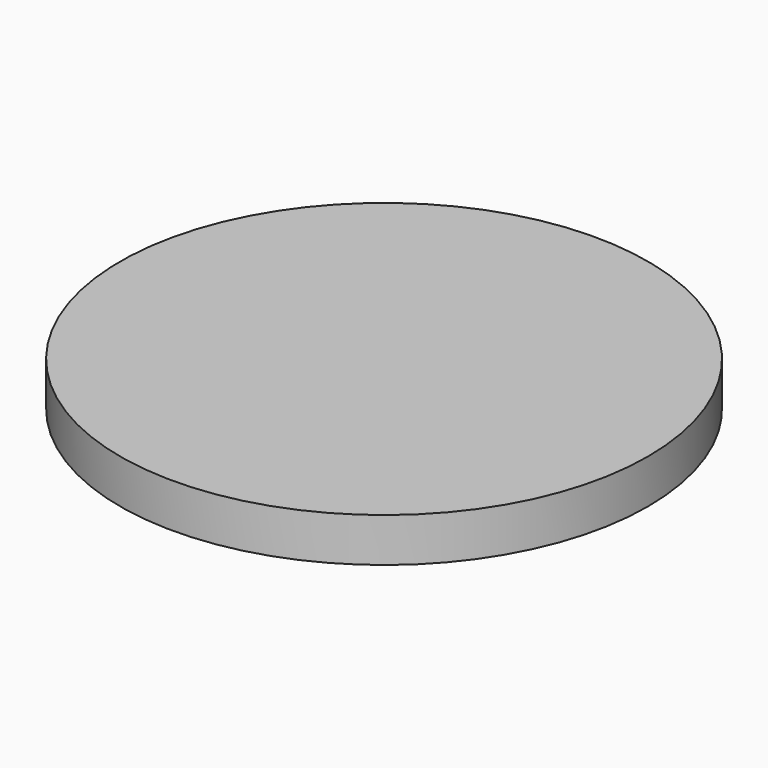
from build123d import *

# Parameters (mm, degrees)
F1_DEPTH = 10
F2_R     = 30
F3_DEPTH = 5


with BuildPart() as f1:
    # F0 (on Top) → F1 (new body)
    with BuildSketch(Plane.XY):
        Polygon((-2.061935, 7.216769), (-5.218938, -5.394072), (7.280873, -1.822697), align=None)
    extrude(amount=F1_DEPTH)

    # F2 (on face) → F3 (join)
    with BuildSketch(Plane.XY.offset(10)):
        Circle(F2_R)
    extrude(amount=F3_DEPTH)


solid = f1.part
